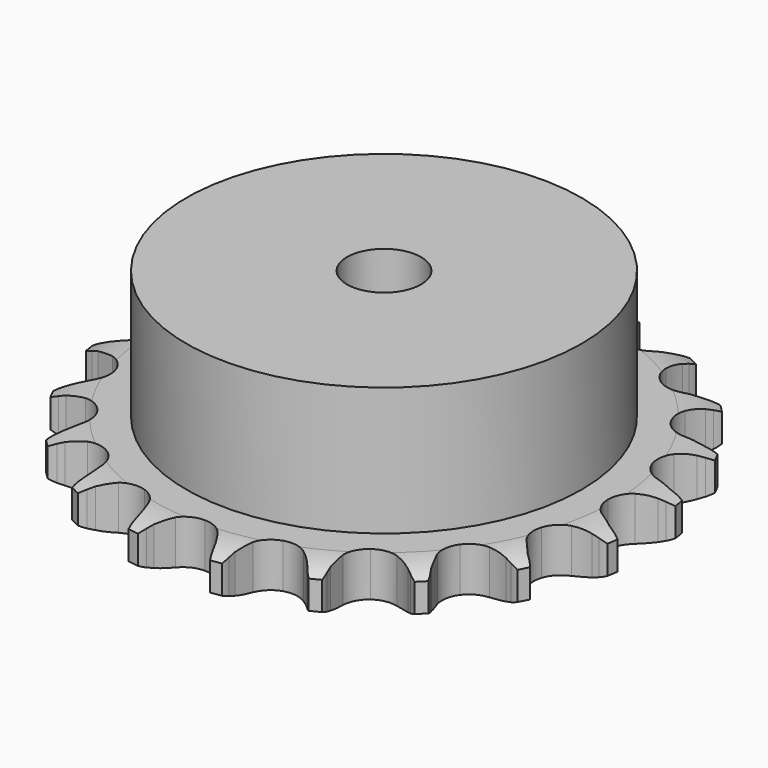
from build123d import *

# Parameters (mm, degrees)
PAD_DEPTH         = 7.2
SKETCH001_R       = 32
PAD001_DEPTH      = 28
SKETCH002_R       = 6
POCKET_DEPTH      = 0.001
POCKET_DEPTH_BACK = -28.001


with BuildPart() as part:
    # Sprocket → Pad (new body)
    with BuildSketch(Plane.XY):
        with BuildLine():
            ThreePointArc((-6.940803, 43.822508), (-5.995983, 42.720524), (-5.298097, 41.447728))
            Line((-5.298097, 41.447728), (-4.88853, 40.473408))
            ThreePointArc((-4.88853, 40.473408), (-4.228423, 39.155204), (-3.399774, 37.935883))
            ThreePointArc((-3.399774, 37.935883), (-1.891298, 36.714343), (0, 36.277703))
            ThreePointArc((0, 36.277703), (1.891298, 36.714343), (3.399774, 37.935883))
            ThreePointArc((3.399774, 37.935883), (4.228423, 39.155204), (4.88853, 40.473408))
            Line((4.88853, 40.473408), (5.298097, 41.447728))
            ThreePointArc((5.298097, 41.447728), (5.995983, 42.720524), (6.940803, 43.822508))
            ThreePointArc((6.940803, 43.822508), (7.498849, 42.482493), (7.769263, 41.056334))
            Line((7.769263, 41.056334), (7.857702, 40.003137))
            ThreePointArc((7.857702, 40.003137), (8.078154, 38.545467), (8.489456, 37.129757))
            ThreePointArc((8.489456, 37.129757), (9.546625, 35.501859), (11.210427, 34.502146))
            ThreePointArc((11.210427, 34.502146), (13.144087, 34.332972), (14.95621, 35.028581))
            Line((14.95621, 35.028581), (17.15624, 36.981859))
            ThreePointArc((17.15624, 36.981859), (17.492032, 37.390102), (17.846842, 37.78193))
            ThreePointArc((17.846842, 37.78193), (18.903887, 38.776772), (20.142996, 39.532855))
            ThreePointArc((20.142996, 39.532855), (20.259641, 38.08598), (20.076113, 36.64606))
            Line((20.076113, 36.64606), (19.834768, 35.617081))
            ThreePointArc((19.834768, 35.617081), (19.593985, 34.16263), (19.547678, 32.689111))
            ThreePointArc((19.547678, 32.689111), (20.050058, 30.814205), (21.323499, 29.349278))
            ThreePointArc((21.323499, 29.349278), (23.110241, 28.590851), (25.048628, 28.692437))
            Line((25.048628, 28.692437), (27.744576, 29.870268))
            ThreePointArc((27.744576, 29.870268), (28.190088, 30.154765), (28.648614, 30.417773))
            ThreePointArc((28.648614, 30.417773), (29.961346, 31.037279), (31.373452, 31.373452))
            ThreePointArc((31.373452, 31.373452), (31.037279, 29.961346), (30.417773, 28.648614))
            Line((30.417773, 28.648614), (29.870268, 27.744576))
            ThreePointArc((29.870268, 27.744576), (29.191821, 26.435718), (28.692437, 25.048628))
            ThreePointArc((28.692437, 25.048628), (28.590851, 23.110241), (29.349278, 21.323499))
            ThreePointArc((29.349278, 21.323499), (30.814205, 20.050058), (32.689111, 19.547678))
            Line((32.689111, 19.547678), (35.617081, 19.834768))
            ThreePointArc((35.617081, 19.834768), (36.128702, 19.96767), (36.64606, 20.076113))
            ThreePointArc((36.64606, 20.076113), (38.08598, 20.259641), (39.532855, 20.142996))
            ThreePointArc((39.532855, 20.142996), (38.776772, 18.903887), (37.78193, 17.846842))
            Line((37.78193, 17.846842), (36.981859, 17.15624))
            ThreePointArc((36.981859, 17.15624), (35.932157, 16.121093), (35.028581, 14.95621))
            ThreePointArc((35.028581, 14.95621), (34.332972, 13.144087), (34.502146, 11.210427))
            ThreePointArc((34.502146, 11.210427), (35.501859, 9.546625), (37.129757, 8.489456))
            Line((37.129757, 8.489456), (40.003137, 7.857702))
            ThreePointArc((40.003137, 7.857702), (40.530787, 7.825999), (41.056334, 7.769263))
            ThreePointArc((41.056334, 7.769263), (42.482493, 7.498849), (43.822508, 6.940803))
            ThreePointArc((43.822508, 6.940803), (42.720524, 5.995983), (41.447728, 5.298097))
            Line((41.447728, 5.298097), (40.473408, 4.88853))
            ThreePointArc((40.473408, 4.88853), (39.155204, 4.228423), (37.935883, 3.399774))
            ThreePointArc((37.935883, 3.399774), (36.714343, 1.891298), (36.277703, 0))
            ThreePointArc((36.277703, 0), (36.714343, -1.891298), (37.935883, -3.399774))
            Line((37.935883, -3.399774), (40.473408, -4.88853))
            ThreePointArc((40.473408, -4.88853), (40.965436, -5.081734), (41.447728, -5.298097))
            ThreePointArc((41.447728, -5.298097), (42.720524, -5.995983), (43.822508, -6.940803))
            ThreePointArc((43.822508, -6.940803), (42.482493, -7.498849), (41.056334, -7.769263))
            Line((41.056334, -7.769263), (40.003137, -7.857702))
            ThreePointArc((40.003137, -7.857702), (38.545467, -8.078154), (37.129757, -8.489456))
            ThreePointArc((37.129757, -8.489456), (35.501859, -9.546625), (34.502146, -11.210427))
            ThreePointArc((34.502146, -11.210427), (34.332972, -13.144087), (35.028581, -14.95621))
            Line((35.028581, -14.95621), (36.981859, -17.15624))
            ThreePointArc((36.981859, -17.15624), (37.390102, -17.492032), (37.78193, -17.846842))
            ThreePointArc((37.78193, -17.846842), (38.776772, -18.903887), (39.532855, -20.142996))
            ThreePointArc((39.532855, -20.142996), (38.08598, -20.259641), (36.64606, -20.076113))
            Line((36.64606, -20.076113), (35.617081, -19.834768))
            ThreePointArc((35.617081, -19.834768), (34.16263, -19.593985), (32.689111, -19.547678))
            ThreePointArc((32.689111, -19.547678), (30.814205, -20.050058), (29.349278, -21.323499))
            ThreePointArc((29.349278, -21.323499), (28.590851, -23.110241), (28.692437, -25.048628))
            Line((28.692437, -25.048628), (29.870268, -27.744576))
            ThreePointArc((29.870268, -27.744576), (30.154765, -28.190088), (30.417773, -28.648614))
            ThreePointArc((30.417773, -28.648614), (31.037279, -29.961346), (31.373452, -31.373452))
            ThreePointArc((31.373452, -31.373452), (29.961346, -31.037279), (28.648614, -30.417773))
            Line((28.648614, -30.417773), (27.744576, -29.870268))
            ThreePointArc((27.744576, -29.870268), (26.435718, -29.191821), (25.048628, -28.692437))
            ThreePointArc((25.048628, -28.692437), (23.110241, -28.590851), (21.323499, -29.349278))
            ThreePointArc((21.323499, -29.349278), (20.050058, -30.814205), (19.547678, -32.689111))
            Line((19.547678, -32.689111), (19.834768, -35.617081))
            ThreePointArc((19.834768, -35.617081), (19.96767, -36.128702), (20.076113, -36.64606))
            ThreePointArc((20.076113, -36.64606), (20.259641, -38.08598), (20.142996, -39.532855))
            ThreePointArc((20.142996, -39.532855), (18.903887, -38.776772), (17.846842, -37.78193))
            Line((17.846842, -37.78193), (17.15624, -36.981859))
            ThreePointArc((17.15624, -36.981859), (16.121093, -35.932157), (14.95621, -35.028581))
            ThreePointArc((14.95621, -35.028581), (13.144087, -34.332972), (11.210427, -34.502146))
            ThreePointArc((11.210427, -34.502146), (9.546625, -35.501859), (8.489456, -37.129757))
            Line((8.489456, -37.129757), (7.857702, -40.003137))
            ThreePointArc((7.857702, -40.003137), (7.825999, -40.530787), (7.769263, -41.056334))
            ThreePointArc((7.769263, -41.056334), (7.498849, -42.482493), (6.940803, -43.822508))
            ThreePointArc((6.940803, -43.822508), (5.995983, -42.720524), (5.298097, -41.447728))
            Line((5.298097, -41.447728), (4.88853, -40.473408))
            ThreePointArc((4.88853, -40.473408), (4.228423, -39.155204), (3.399774, -37.935883))
            ThreePointArc((3.399774, -37.935883), (1.891298, -36.714343), (0, -36.277703))
            ThreePointArc((0, -36.277703), (-1.891298, -36.714343), (-3.399774, -37.935883))
            Line((-3.399774, -37.935883), (-4.88853, -40.473408))
            ThreePointArc((-4.88853, -40.473408), (-5.081734, -40.965436), (-5.298097, -41.447728))
            ThreePointArc((-5.298097, -41.447728), (-5.995983, -42.720524), (-6.940803, -43.822508))
            ThreePointArc((-6.940803, -43.822508), (-7.498849, -42.482493), (-7.769263, -41.056334))
            Line((-7.769263, -41.056334), (-7.857702, -40.003137))
            ThreePointArc((-7.857702, -40.003137), (-8.078154, -38.545467), (-8.489456, -37.129757))
            ThreePointArc((-8.489456, -37.129757), (-9.546625, -35.501859), (-11.210427, -34.502146))
            ThreePointArc((-11.210427, -34.502146), (-13.144087, -34.332972), (-14.95621, -35.028581))
            Line((-14.95621, -35.028581), (-17.15624, -36.981859))
            ThreePointArc((-17.15624, -36.981859), (-17.492032, -37.390102), (-17.846842, -37.78193))
            ThreePointArc((-17.846842, -37.78193), (-18.903887, -38.776772), (-20.142996, -39.532855))
            ThreePointArc((-20.142996, -39.532855), (-20.259641, -38.08598), (-20.076113, -36.64606))
            Line((-20.076113, -36.64606), (-19.834768, -35.617081))
            ThreePointArc((-19.834768, -35.617081), (-19.593985, -34.16263), (-19.547678, -32.689111))
            ThreePointArc((-19.547678, -32.689111), (-20.050058, -30.814205), (-21.323499, -29.349278))
            ThreePointArc((-21.323499, -29.349278), (-23.110241, -28.590851), (-25.048628, -28.692437))
            Line((-25.048628, -28.692437), (-27.744576, -29.870268))
            ThreePointArc((-27.744576, -29.870268), (-28.190088, -30.154765), (-28.648614, -30.417773))
            ThreePointArc((-28.648614, -30.417773), (-29.961346, -31.037279), (-31.373452, -31.373452))
            ThreePointArc((-31.373452, -31.373452), (-31.037279, -29.961346), (-30.417773, -28.648614))
            Line((-30.417773, -28.648614), (-29.870268, -27.744576))
            ThreePointArc((-29.870268, -27.744576), (-29.191821, -26.435718), (-28.692437, -25.048628))
            ThreePointArc((-28.692437, -25.048628), (-28.590851, -23.110241), (-29.349278, -21.323499))
            ThreePointArc((-29.349278, -21.323499), (-30.814205, -20.050058), (-32.689111, -19.547678))
            Line((-32.689111, -19.547678), (-35.617081, -19.834768))
            ThreePointArc((-35.617081, -19.834768), (-36.128702, -19.96767), (-36.64606, -20.076113))
            ThreePointArc((-36.64606, -20.076113), (-38.08598, -20.259641), (-39.532855, -20.142996))
            ThreePointArc((-39.532855, -20.142996), (-38.776772, -18.903887), (-37.78193, -17.846842))
            Line((-37.78193, -17.846842), (-36.981859, -17.15624))
            ThreePointArc((-36.981859, -17.15624), (-35.932157, -16.121093), (-35.028581, -14.95621))
            ThreePointArc((-35.028581, -14.95621), (-34.332972, -13.144087), (-34.502146, -11.210427))
            ThreePointArc((-34.502146, -11.210427), (-35.501859, -9.546625), (-37.129757, -8.489456))
            Line((-37.129757, -8.489456), (-40.003137, -7.857702))
            ThreePointArc((-40.003137, -7.857702), (-40.530787, -7.825999), (-41.056334, -7.769263))
            ThreePointArc((-41.056334, -7.769263), (-42.482493, -7.498849), (-43.822508, -6.940803))
            ThreePointArc((-43.822508, -6.940803), (-42.720524, -5.995983), (-41.447728, -5.298097))
            Line((-41.447728, -5.298097), (-40.473408, -4.88853))
            ThreePointArc((-40.473408, -4.88853), (-39.155204, -4.228423), (-37.935883, -3.399774))
            ThreePointArc((-37.935883, -3.399774), (-36.714343, -1.891298), (-36.277703, 0))
            ThreePointArc((-36.277703, 0), (-36.714343, 1.891298), (-37.935883, 3.399774))
            Line((-37.935883, 3.399774), (-40.473408, 4.88853))
            ThreePointArc((-40.473408, 4.88853), (-40.965436, 5.081734), (-41.447728, 5.298097))
            ThreePointArc((-41.447728, 5.298097), (-42.720524, 5.995983), (-43.822508, 6.940803))
            ThreePointArc((-43.822508, 6.940803), (-42.482493, 7.498849), (-41.056334, 7.769263))
            Line((-41.056334, 7.769263), (-40.003137, 7.857702))
            ThreePointArc((-40.003137, 7.857702), (-38.545467, 8.078154), (-37.129757, 8.489456))
            ThreePointArc((-37.129757, 8.489456), (-35.501859, 9.546625), (-34.502146, 11.210427))
            ThreePointArc((-34.502146, 11.210427), (-34.332972, 13.144087), (-35.028581, 14.95621))
            Line((-35.028581, 14.95621), (-36.981859, 17.15624))
            ThreePointArc((-36.981859, 17.15624), (-37.390102, 17.492032), (-37.78193, 17.846842))
            ThreePointArc((-37.78193, 17.846842), (-38.776772, 18.903887), (-39.532855, 20.142996))
            ThreePointArc((-39.532855, 20.142996), (-38.08598, 20.259641), (-36.64606, 20.076113))
            Line((-36.64606, 20.076113), (-35.617081, 19.834768))
            ThreePointArc((-35.617081, 19.834768), (-34.16263, 19.593985), (-32.689111, 19.547678))
            ThreePointArc((-32.689111, 19.547678), (-30.814205, 20.050058), (-29.349278, 21.323499))
            ThreePointArc((-29.349278, 21.323499), (-28.590851, 23.110241), (-28.692437, 25.048628))
            Line((-28.692437, 25.048628), (-29.870268, 27.744576))
            ThreePointArc((-29.870268, 27.744576), (-30.154765, 28.190088), (-30.417773, 28.648614))
            ThreePointArc((-30.417773, 28.648614), (-31.037279, 29.961346), (-31.373452, 31.373452))
            ThreePointArc((-31.373452, 31.373452), (-29.961346, 31.037279), (-28.648614, 30.417773))
            Line((-28.648614, 30.417773), (-27.744576, 29.870268))
            ThreePointArc((-27.744576, 29.870268), (-26.435718, 29.191821), (-25.048628, 28.692437))
            ThreePointArc((-25.048628, 28.692437), (-23.110241, 28.590851), (-21.323499, 29.349278))
            ThreePointArc((-21.323499, 29.349278), (-20.050058, 30.814205), (-19.547678, 32.689111))
            Line((-19.547678, 32.689111), (-19.834768, 35.617081))
            ThreePointArc((-19.834768, 35.617081), (-19.96767, 36.128702), (-20.076113, 36.64606))
            ThreePointArc((-20.076113, 36.64606), (-20.259641, 38.08598), (-20.142996, 39.532855))
            ThreePointArc((-20.142996, 39.532855), (-18.903887, 38.776772), (-17.846842, 37.78193))
            Line((-17.846842, 37.78193), (-17.15624, 36.981859))
            ThreePointArc((-17.15624, 36.981859), (-16.121093, 35.932157), (-14.95621, 35.028581))
            ThreePointArc((-14.95621, 35.028581), (-13.144087, 34.332972), (-11.210427, 34.502146))
            ThreePointArc((-11.210427, 34.502146), (-9.546625, 35.501859), (-8.489456, 37.129757))
            Line((-8.489456, 37.129757), (-7.857702, 40.003137))
            ThreePointArc((-7.857702, 40.003137), (-7.825999, 40.530787), (-7.769263, 41.056334))
            ThreePointArc((-7.769263, 41.056334), (-7.498849, 42.482493), (-6.940803, 43.822508))
        make_face()
    extrude(amount=PAD_DEPTH)

    # Sketch → Groove (revolve, cut)
    with BuildSketch(Plane.XZ):
        with BuildLine():
            Line((37.233431, 0), (42.9, 0))
            Line((48.566569, 0), (42.9, 0))
            Line((48.566569, 7.2), (48.566569, 0))
            Line((42.9, 7.2), (48.566569, 7.2))
            Line((37.233431, 7.2), (42.9, 7.2))
            ThreePointArc((42.9, 5.9), (40.14032, 6.870833), (37.233431, 7.2))
            Line((42.9, 1.3), (42.9, 5.9))
            ThreePointArc((37.233431, 0), (40.14032, 0.329167), (42.9, 1.3))
        make_face()
    revolve(axis=Axis((0, 0, 0), (0, 0, 1)), mode=Mode.SUBTRACT)

    # Sketch001 → Pad001 (join)
    with BuildSketch(Plane.XY):
        Circle(SKETCH001_R)
    extrude(amount=PAD001_DEPTH)

    # Sketch002 → Pocket (cut, two sides)
    with BuildSketch(Plane.XY) as pocket_sk:
        Circle(SKETCH002_R)
    extrude(amount=-POCKET_DEPTH, mode=Mode.SUBTRACT)
    extrude(pocket_sk.sketch, amount=-POCKET_DEPTH_BACK, mode=Mode.SUBTRACT)


solid = part.part
